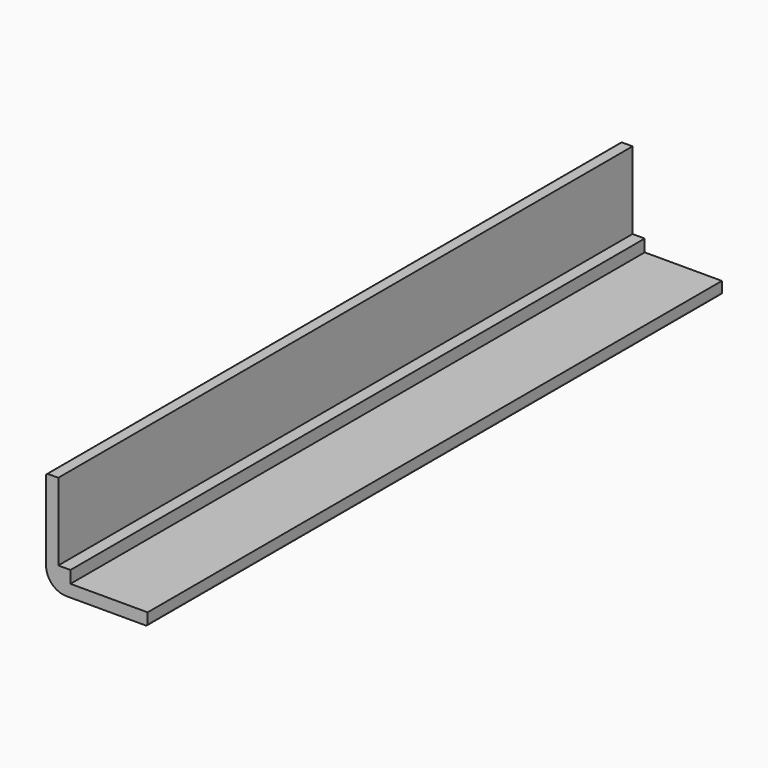
from build123d import *

# Parameters (mm, degrees)
F1_DEPTH = 176.666666
F2_R     = 5
F3_R     = 0.5


with BuildPart() as f1:
    # F0 (on Front) → F1 (new body)
    with BuildSketch(Plane.XZ):
        Polygon((3, 25), (0, 25), (0, 0), (25, 0), (25, 3), (6, 3), (6, 6), (3, 6), align=None)
    extrude(amount=F1_DEPTH)

    # F2
    f2_edges = [f1.edges().sort_by_distance(p)[0] for p in [
        (0, -88.333333, 0),
    ]]
    fillet(f2_edges, radius=F2_R)

    # F3
    f3_edges = [f1.edges().sort_by_distance(p)[0] for p in [
        (0, -88.333333, 25),
        (25, -88.333333, 0),
    ]]
    fillet(f3_edges, radius=F3_R)


solid = f1.part
